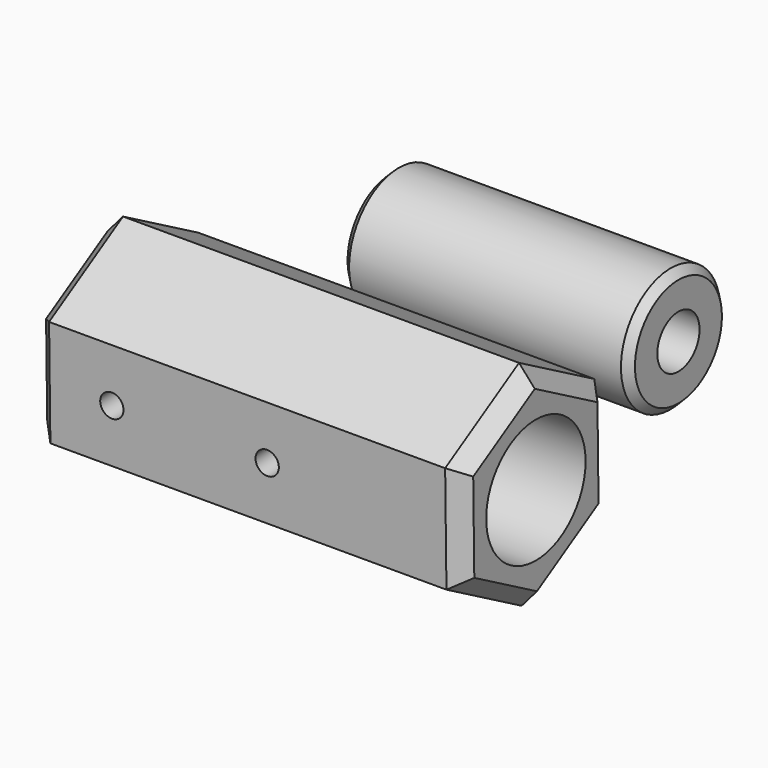
from build123d import *

# Parameters (mm, degrees)
F1_DEPTH  = 27.5
F2_R      = 8
F3_DEPTH  = 51
F5_DEPTH  = 3
F6_R      = 1.5
F7_DEPTH  = 5
F8_R      = 1.5
F9_DEPTH  = 3
F10_SIZE  = 2
F11_R     = 8
F12_DEPTH = 18.5
F13_R     = 3.4
F14_DEPTH = 18
F15_SIZE  = 1


with BuildPart() as f1:
    # F0 (on Right) → F1 (new body, symmetric)
    with BuildSketch(Plane.YZ):
        Polygon((-11.8934309535, -7.1095921229), (0.2103719122, -13.8548094053), (12.1038028657, -6.7452172825), (11.8934309535, 7.1095921229), (-0.2103719122, 13.8548094053), (-12.1038028657, 6.7452172825), align=None)
    extrude(amount=F1_DEPTH, both=True)

    # F2 (on face) → F3 (cut)
    with BuildSketch(Plane.YZ.offset(27.5)):
        Circle(F2_R)
    extrude(amount=-F3_DEPTH, mode=Mode.SUBTRACT)

    # F4 (on face) → F5 (cut)
    with BuildSketch(Plane(origin=(0, -11.9986169096, -0.1821874202), x_dir=(1, 0, 0), z_dir=(0, -0.9998847425, -0.015182285))):
        with BuildLine():
            ThreePointArc((1, 0), (2.5, -1.5), (4, 0))
            ThreePointArc((4, 0), (2.5, 1.5), (1, 0))
        make_face()
    extrude(amount=-F5_DEPTH, mode=Mode.SUBTRACT)

    # F6 (on face) → F7 (cut)
    with BuildSketch(Plane(origin=(0, -11.9986169096, -0.1821874202), x_dir=(1, 0, 0), z_dir=(0, -0.9998847425, -0.015182285))):
        with Locations((-17.5, 0)):
            Circle(F6_R)
    extrude(amount=-F7_DEPTH, mode=Mode.SUBTRACT)

    # F8 (on face) → F9 (cut)
    with BuildSketch(Plane(origin=(0, 11.9986169096, 0.1821874202), x_dir=(-1, 0, 0), z_dir=(0, 0.9998847425, 0.015182285))):
        with Locations((-2.5, 0)):
            Circle(F8_R)
    extrude(amount=-F9_DEPTH, mode=Mode.SUBTRACT)

    # F10
    f10_edges = [f1.edges().sort_by_distance(p)[0] for p in [
        (27.5, -6.157087, 10.300013),
        (27.5, -11.998617, -0.182187),
        (27.5, -5.84153, -10.482201),
        (27.5, 6.157087, -10.300013),
        (27.5, 11.998617, 0.182187),
        (27.5, 5.84153, 10.482201),
        (-27.5, 5.84153, 10.482201),
        (-27.5, -6.157087, 10.300013),
        (-27.5, -11.998617, -0.182187),
        (-27.5, -5.84153, -10.482201),
        (-27.5, 6.157087, -10.300013),
        (-27.5, 11.998617, 0.182187),
    ]]
    chamfer(f10_edges, length=F10_SIZE)


with BuildPart() as f12:
    # F11 (on Right) → F12 (new body, symmetric)
    with BuildSketch(Plane.YZ):
        with Locations((34.1939330101, 0)):
            Circle(F11_R)
    extrude(amount=F12_DEPTH, both=True)

    # F13 (on face) → F14 (cut)
    with BuildSketch(Plane.YZ.offset(18.5)):
        with Locations((34.1939330101, 0)):
            Circle(F13_R)
    extrude(amount=-F14_DEPTH, mode=Mode.SUBTRACT)

    # F15
    f15_edges = [f12.edges().sort_by_distance(p)[0] for p in [
        (18.5, 26.193933, 0),
        (-18.5, 26.193933, 0),
    ]]
    chamfer(f15_edges, length=F15_SIZE)


solid = Compound([f1.part, f12.part])
